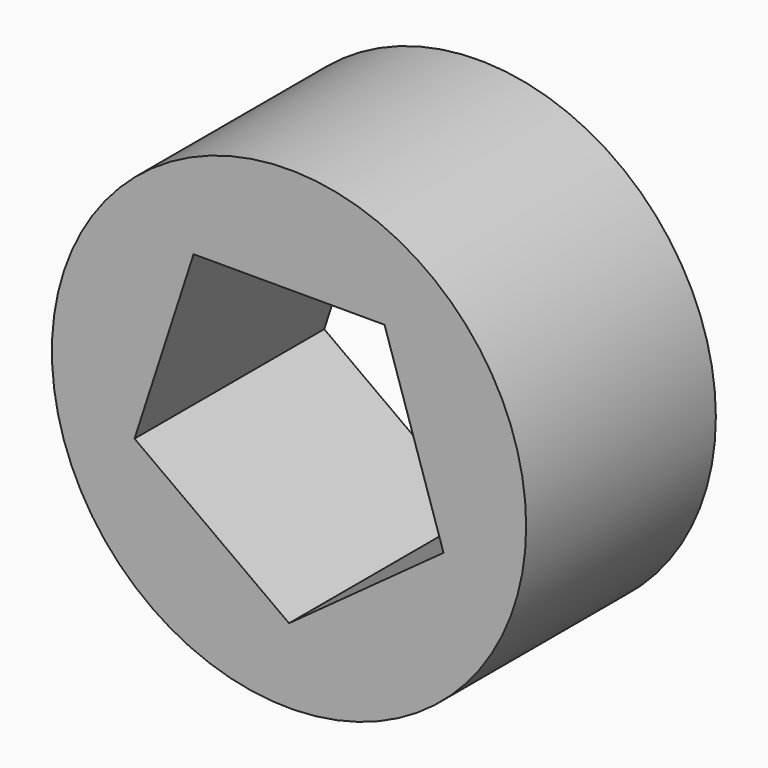
from build123d import *

# Parameters (mm, degrees)
F0_R     = 25
F1_DEPTH = 25
F3_DEPTH = 25


with BuildPart() as f1:
    # F0 (on Front) → F1 (new body)
    with BuildSketch(Plane.XZ):
        Circle(F0_R)
    extrude(amount=F1_DEPTH)

    # F2 (on face) → F3 (cut)
    with BuildSketch(Plane.XZ.offset(25)):
        Polygon((16.286411, -5.293403), (10.067103, 13.853546), (-10.064599, 13.855365), (-16.287367, -5.29046), (-0.001547, -17.125049), align=None)
    extrude(amount=-F3_DEPTH, mode=Mode.SUBTRACT)


solid = f1.part
